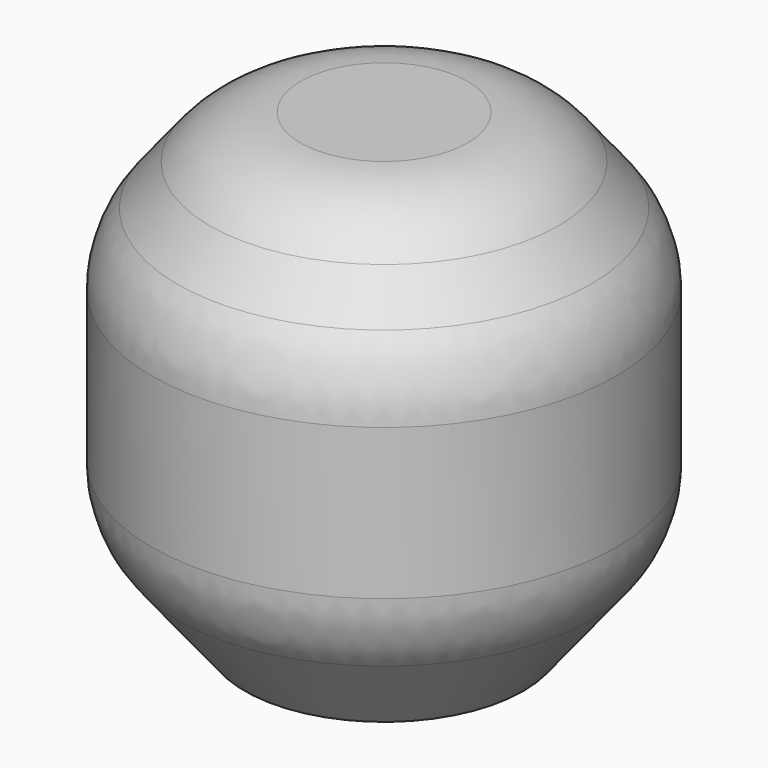
from build123d import *

# Parameters (mm, degrees)
F0_R       = 10
F1_DEPTH   = 20
F2_SIZE2   = 5
F2_SIZE    = 4
F2_2_SIZE2 = 5
F2_2_SIZE  = 4
F3_R       = 5


with BuildPart() as f1:
    # F0 (on Top) → F1 (new body)
    with BuildSketch(Plane.XY):
        Circle(F0_R)
    extrude(amount=F1_DEPTH)

    # F2
    f2_edges = [f1.edges().sort_by_distance(p)[0] for p in [
        (-10, 0, 20),
    ]]
    f2_side = f1.faces().sort_by_distance((0, 0, 20))[0]
    chamfer(f2_edges, length=F2_SIZE, length2=F2_SIZE2, reference=f2_side)

    # F2#2
    f2_2_edges = [f1.edges().sort_by_distance(p)[0] for p in [
        (-10, 0, 0),
    ]]
    f2_2_side = f1.faces().sort_by_distance((0, 0, 0))[0]
    chamfer(f2_2_edges, length=F2_2_SIZE, length2=F2_2_SIZE2, reference=f2_2_side)

    # F3
    f3_edges = [f1.edges().sort_by_distance(p)[0] for p in [
        (-10, 0, 15),
        (-6, 0, 20),
        (-10, 0, 5),
    ]]
    fillet(f3_edges, radius=F3_R)


solid = f1.part
